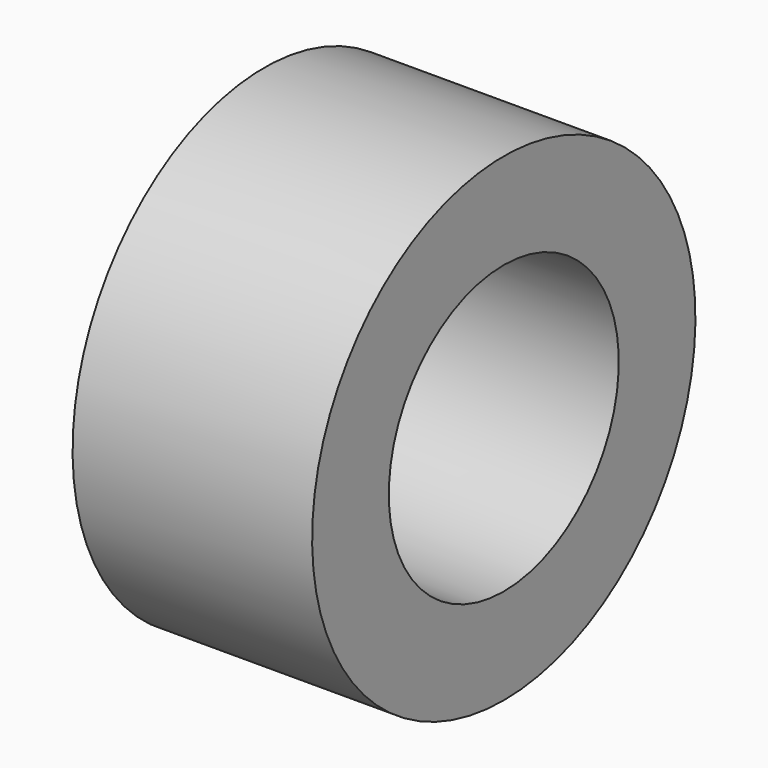
from build123d import *

# Parameters (mm, degrees)
CYLINDER007_R           = 6
CYLINDER007_DEPTH       = 236
CYLINDER007_PITCH_ANGLE = 90
CYLINDER004_R           = 10
CYLINDER004_DEPTH       = 10
CYLINDER004_PITCH_ANGLE = 90


with BuildPart() as connector_bore:
    # Cylinder007 → Cylinder007 (new body)
    with BuildSketch(Plane.XY):
        Circle(CYLINDER007_R)
    extrude(amount=CYLINDER007_DEPTH)


with BuildPart() as connector_bore_1:
    # Cylinder007 pitch: moved
    add(connector_bore.part.rotate(Axis((0, 0, 0), (0, 1, 0)), CYLINDER007_PITCH_ANGLE))


with BuildPart() as connector_bore_2:
    # Cylinder007 placement: moved
    add(connector_bore_1.part.moved(Location((-45, 0, 0))))


with BuildPart() as cut002:
    # Cylinder004 → Cylinder004 (new body)
    with BuildSketch(Plane.XY):
        Circle(CYLINDER004_R)
    extrude(amount=CYLINDER004_DEPTH)


with BuildPart() as cut002_1:
    # Cylinder004 pitch: moved
    add(cut002.part.rotate(Axis((0, 0, 0), (0, 1, 0)), CYLINDER004_PITCH_ANGLE))


with BuildPart() as cut002_2:
    # Cylinder004 placement: moved
    add(cut002_1.part.moved(Location((153, 0, 0))))

    # Cut002: cut connector_bore
    add(connector_bore_2.part, mode=Mode.SUBTRACT)


solid = cut002_2.part
